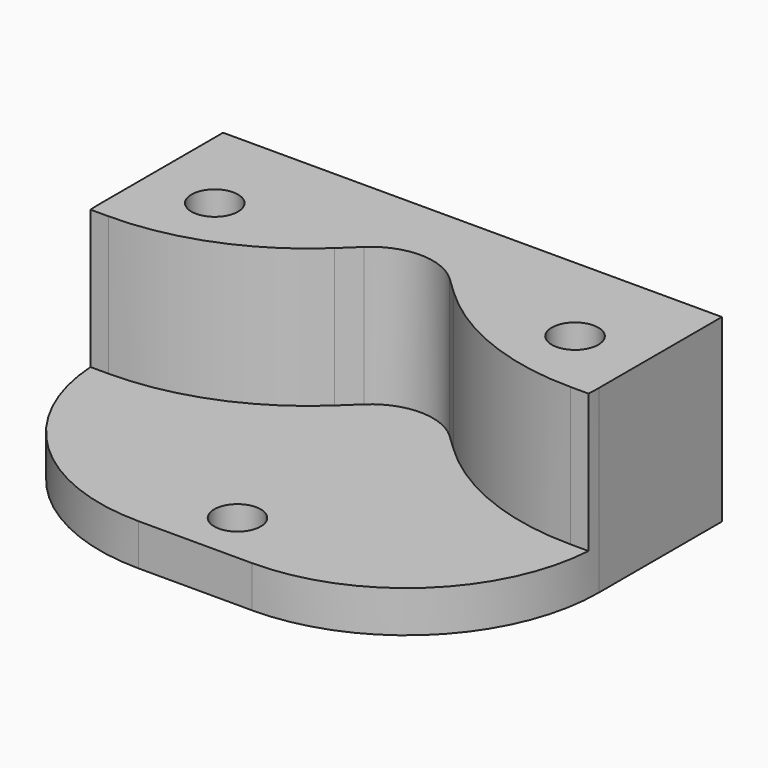
from build123d import *

# Parameters (mm, degrees)
BOX001_W        = 36
BOX001_H        = 25
BOX001_DEPTH    = 13
SKETCH_R        = 1.68
POCKET005_DEPTH = 13.001
SKETCH014_W     = 13
SKETCH014_H     = 10
POCKET006_DEPTH = 36.001
SKETCH015_R     = 3
POCKET007_DEPTH = 4
POCKET008_DEPTH = 10
FILLET_R        = 18
FILLET001_R     = 4.5
FILLET002_R     = 13.9


with BuildPart() as part:
    # Box001 → Box001 (new body)
    with BuildSketch(Plane(origin=(8, -13, -13), x_dir=(1, 0, 0), z_dir=(0, 0, 1))):
        with Locations((18, 12.5)):
            Rectangle(BOX001_W, BOX001_H)
    extrude(amount=BOX001_DEPTH)

    # Sketch → Pocket005 (cut, through all)
    with BuildSketch(Plane(origin=(8, -13, -13), x_dir=(1, 0, 0), z_dir=(0, 0, -1))):
        with Locations((31, -18)):
            Circle(SKETCH_R)
        with Locations((5, -18)):
            Circle(SKETCH_R)
        with Locations((18, -3.8)):
            Circle(SKETCH_R)
    extrude(amount=-POCKET005_DEPTH, mode=Mode.SUBTRACT)

    # Sketch014 → Pocket006 (cut, through all)
    with BuildSketch(Plane(origin=(8, -13, -13), x_dir=(0, -1, 0), z_dir=(-1, 0, 0))):
        with Locations((-6.5, 8)):
            Rectangle(SKETCH014_W, SKETCH014_H)
    extrude(amount=-POCKET006_DEPTH, mode=Mode.SUBTRACT)

    # Sketch015 → Pocket007 (cut)
    with BuildSketch(Plane(origin=(8, -13, -13), x_dir=(1, 0, 0), z_dir=(0, 0, -1))):
        with Locations((5, -18)):
            Circle(SKETCH015_R)
        with Locations((31, -18)):
            Circle(SKETCH015_R)
    extrude(amount=-POCKET007_DEPTH, mode=Mode.SUBTRACT)

    # Sketch016 → Pocket008 (cut)
    with BuildSketch(Plane(origin=(8, -13, 0), x_dir=(1, 0, 0), z_dir=(0, 0, 1))):
        Polygon((8.5, 13), (18, 22), (27.5, 13), align=None)
    extrude(amount=-POCKET008_DEPTH, mode=Mode.SUBTRACT)

    # Fillet
    fillet_edges = [part.edges().sort_by_distance(p)[0] for p in [
        (16.5, 0, -5),
        (35.5, 0, -5),
    ]]
    fillet(fillet_edges, radius=FILLET_R)

    # Fillet001
    fillet001_edges = [part.edges().sort_by_distance(p)[0] for p in [
        (26, 9, -5),
    ]]
    fillet(fillet001_edges, radius=FILLET001_R)

    # Fillet002
    fillet002_edges = [part.edges().sort_by_distance(p)[0] for p in [
        (44, -13, -11.5),
        (8, -13, -11.5),
    ]]
    fillet(fillet002_edges, radius=FILLET002_R)


solid = part.part
